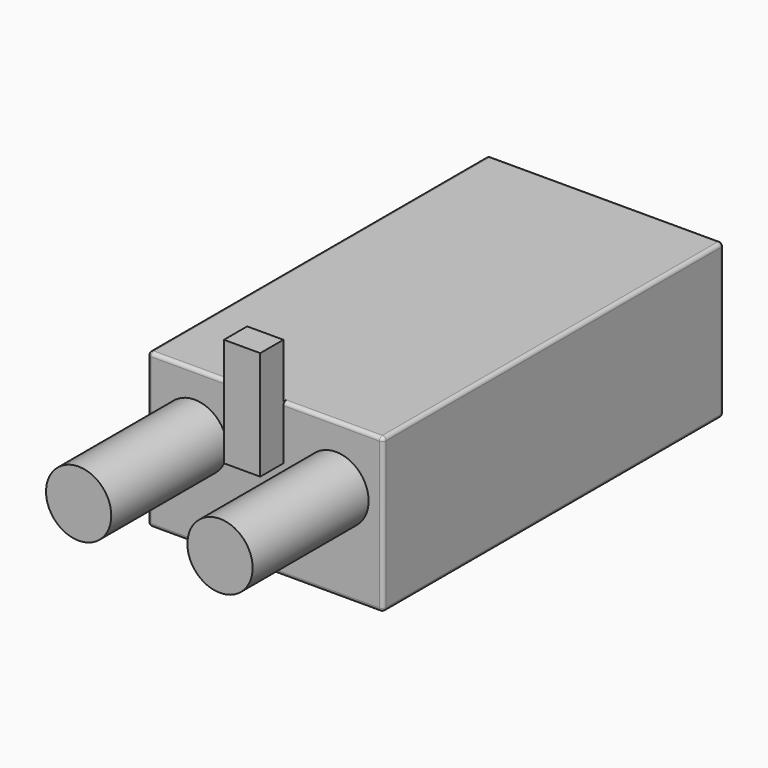
from build123d import *

# Parameters (mm, degrees)
F0_W     = 13
F0_H     = 23.5
F1_DEPTH = 8.5
F2_R     = 1.8
F3_DEPTH = 8
F4_W     = 2
F4_H     = 6
F5_DEPTH = 1.6
F6_R     = 0.2


with BuildPart() as f1:
    # F0 (on Top) → F1 (new body)
    with BuildSketch(Plane.XY):
        with Locations((6.5, 11.75)):
            Rectangle(F0_W, F0_H)
    extrude(amount=F1_DEPTH)

    # F2 (on face) → F3 (join)
    with BuildSketch(Plane.XZ):
        with Locations((2.6, 5.2)):
            Circle(F2_R)
        with Locations((10.4, 5.2)):
            Circle(F2_R)
    extrude(amount=F3_DEPTH)

    # F4 (on face) → F5 (join)
    with BuildSketch(Plane.XZ):
        with Locations((6.5, 8.5)):
            Rectangle(F4_W, F4_H)
    extrude(amount=F5_DEPTH)

    # F6
    f6_edges = [f1.edges().sort_by_distance(p)[0] for p in [
        (6.5, 23.5, 0),
        (13, 11.75, 0),
        (0, 11.75, 0),
        (13, 23.5, 4.25),
        (13, 11.75, 8.5),
        (6.5, 23.5, 8.5),
        (0, 11.75, 8.5),
        (0, 23.5, 4.25),
        (0, 0, 4.25),
        (2.75, 0, 8.5),
        (10.25, 0, 8.5),
        (13, 0, 4.25),
        (6.5, 0, 0),
    ]]
    fillet(f6_edges, radius=F6_R)


solid = f1.part
